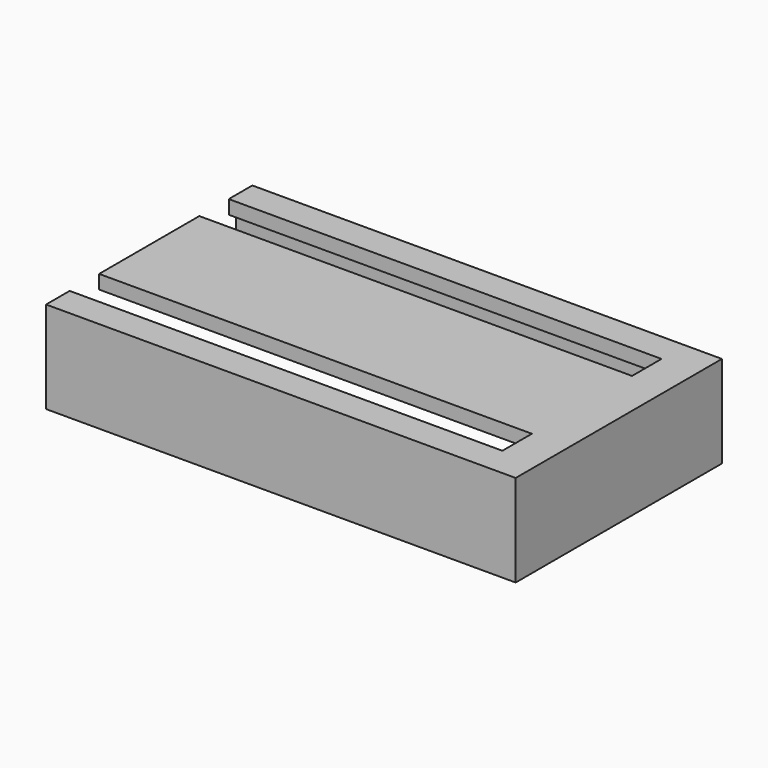
from build123d import *

# Parameters (mm, degrees)
BOX_W           = 49.18
BOX_H           = 23.8
BOX_DEPTH       = 5
SKETCH_W        = 43.2
SKETCH_H        = 17.8
POCKET_DEPTH    = 2
SKETCH001_W     = 3
SKETCH001_H     = 9
POCKET002_DEPTH = 2
BOX001_W        = 51
BOX001_H        = 28
BOX001_DEPTH    = 10
SKETCH002_W     = 23.8
SKETCH002_H     = 5.5
POCKET003_DEPTH = 49.18
SKETCH003_W     = 47
SKETCH003_H     = 4
POCKET004_DEPTH = 5


with BuildPart() as pocket002:
    # Box → Box (new body)
    with BuildSketch(Plane.XY):
        with Locations((24.59, 11.9)):
            Rectangle(BOX_W, BOX_H)
    extrude(amount=BOX_DEPTH)

    # Sketch → Pocket (cut)
    with BuildSketch(Plane.XY.offset(5)):
        with Locations((24.6, 11.9)):
            Rectangle(SKETCH_W, SKETCH_H)
    extrude(amount=-POCKET_DEPTH, mode=Mode.SUBTRACT)

    # Sketch001 → Pocket002 (cut)
    with BuildSketch(Plane.XY.offset(5)):
        with Locations((1.5, 11.9)):
            Rectangle(SKETCH001_W, SKETCH001_H)
    extrude(amount=-POCKET002_DEPTH, mode=Mode.SUBTRACT)


with BuildPart() as pocket004:
    # Box001 → Box001 (new body)
    with BuildSketch(Plane(origin=(0, -2, 0), x_dir=(1, 0, 0), z_dir=(0, 0, 1))):
        with Locations((25.5, 14)):
            Rectangle(BOX001_W, BOX001_H)
    extrude(amount=BOX001_DEPTH)

    # Cut: cut Pocket002
    add(pocket002.part, mode=Mode.SUBTRACT)

    # Sketch002 → Pocket003 (cut)
    with BuildSketch(Plane(origin=(0, 0, 0), x_dir=(0, -1, 0), z_dir=(-1, 0, 0))):
        with Locations((-11.9, 5.75)):
            Rectangle(SKETCH002_W, SKETCH002_H)
    extrude(amount=-POCKET003_DEPTH, mode=Mode.SUBTRACT)

    # Sketch003 → Pocket004 (cut)
    with BuildSketch(Plane.XY.offset(10)):
        with Locations((23.5, 20.8)):
            Rectangle(SKETCH003_W, SKETCH003_H)
        with Locations((23.5, 3.2)):
            Rectangle(SKETCH003_W, SKETCH003_H)
    extrude(amount=-POCKET004_DEPTH, mode=Mode.SUBTRACT)


solid = pocket004.part
